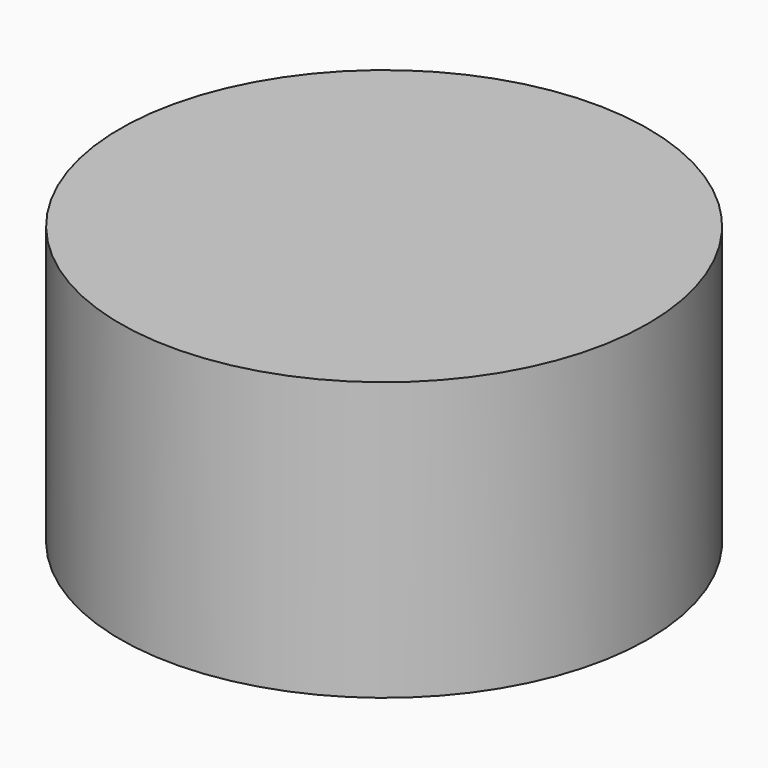
from build123d import *

# Parameters (mm, degrees)
F0_R     = 38
F1_DEPTH = 40
F3_D     = 3.2
F3_DEPTH = 4
F3_TIP   = 0.9613769904


with BuildPart() as f1:
    # F0 (on Top) → F1 (new body)
    with BuildSketch(Plane.XY):
        Circle(F0_R)
    extrude(amount=F1_DEPTH)

    # F3
    with Locations(Plane(origin=(0, 0, 0), x_dir=(1, 0, 0), z_dir=(0, 0, -1))):
        with Locations((-21, 21), (21, 21), (21, -21), (-21, -21)):
            Hole(F3_D / 2, depth=F3_DEPTH)
            with Locations((0, 0, -(F3_DEPTH + F3_TIP / 2))):  # 118° drill point
                Cone(0, F3_D / 2, F3_TIP, mode=Mode.SUBTRACT)


solid = f1.part
